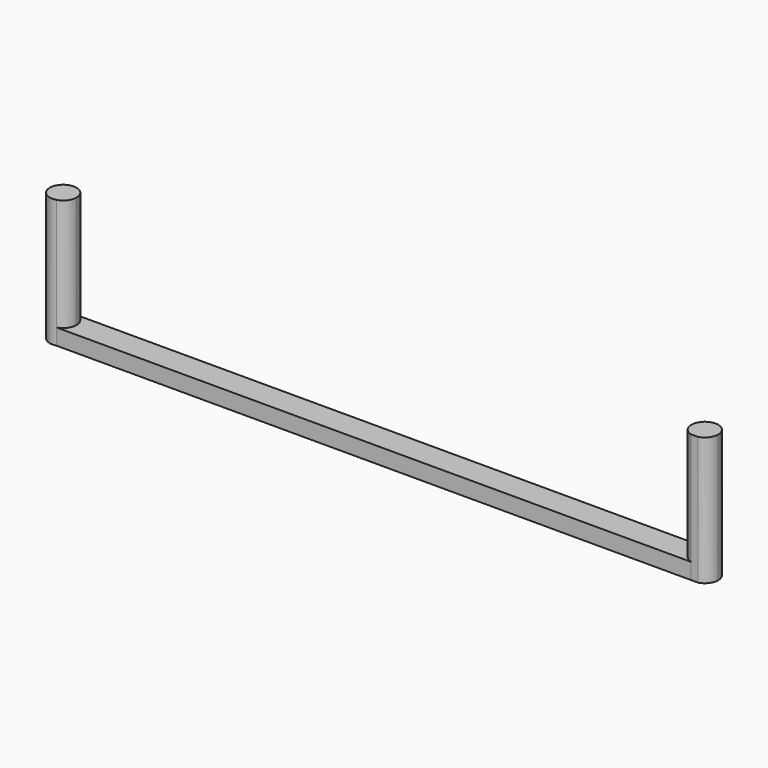
from build123d import *

# Parameters (mm, degrees)
F1_DEPTH = 12
F2_DEPTH = 1.5


with BuildPart() as f1:
    # F0 (on Top) → F1 (new body)
    with BuildSketch(Plane.XY):
        with BuildLine():
            Line((0, 0), (0, 1.25))
            ThreePointArc((0, 1.25), (-1.2391339401, -0.1644599598), (0.3260606688, -1.2067246746))
            Line((0.3260606688, -1.2067246746), (0, -1.2067246746))
            Line((0, -1.2067246746), (0, 0))
        make_face()
        with BuildLine():
            ThreePointArc((0.3260606688, -1.2067246746), (0.9924907647, -0.7599092591), (1.25, 0))
            Line((1.25, 0), (0, 0))
            Line((0, 0), (0, -1.2067246746))
            Line((0, -1.2067246746), (0.3260606688, -1.2067246746))
        make_face()
        with BuildLine():
            Line((0, 0), (1.25, 0))
            ThreePointArc((1.25, 0), (0.8838834765, 0.8838834765), (0, 1.25))
            Line((0, 1.25), (0, 0))
        make_face()
    extrude(amount=F1_DEPTH)


with BuildPart() as f1b:
    # F0 (on Top) → F1, piece 2 (new body)
    with BuildSketch(Plane.XY):
        with BuildLine():
            ThreePointArc((61.25, 0), (60.9924907647, 0.7599092591), (60.3260606688, 1.2067246746))
            Line((60.3260606688, 1.2067246746), (60.3260606688, -1.2067246746))
            ThreePointArc((60.3260606688, -1.2067246746), (60.9924907647, -0.7599092591), (61.25, 0))
        make_face()
        with BuildLine():
            ThreePointArc((60, 1.25), (59.1161165235, 0.8838834765), (58.75, 0))
            ThreePointArc((58.75, 0), (59.0075092353, -0.7599092591), (59.6739393312, -1.2067246746))
            Line((59.6739393312, -1.2067246746), (60.3260606688, -1.2067246746))
            Line((60.3260606688, -1.2067246746), (60.3260606688, 1.2067246746))
            ThreePointArc((60.3260606688, 1.2067246746), (60.1644599598, 1.2391339401), (60, 1.25))
        make_face()
    extrude(amount=F1_DEPTH)


with BuildPart() as f2:
    # F0 (on Top) → F2 (new body)
    with BuildSketch(Plane.XY):
        with BuildLine():
            ThreePointArc((0, 1.25), (0.8838834765, 0.8838834765), (1.25, 0))
            Line((1.25, 0), (58.75, 0))
            ThreePointArc((58.75, 0), (59.1161165235, 0.8838834765), (60, 1.25))
            Line((60, 1.25), (0, 1.25))
        make_face()
        with BuildLine():
            Line((58.75, 0), (1.25, 0))
            ThreePointArc((1.25, 0), (0.9924907647, -0.7599092591), (0.3260606688, -1.2067246746))
            Line((0.3260606688, -1.2067246746), (59.6739393312, -1.2067246746))
            ThreePointArc((59.6739393312, -1.2067246746), (59.0075092353, -0.7599092591), (58.75, 0))
        make_face()
    extrude(amount=F2_DEPTH)


solid = Compound([f1.part, f1b.part, f2.part])
